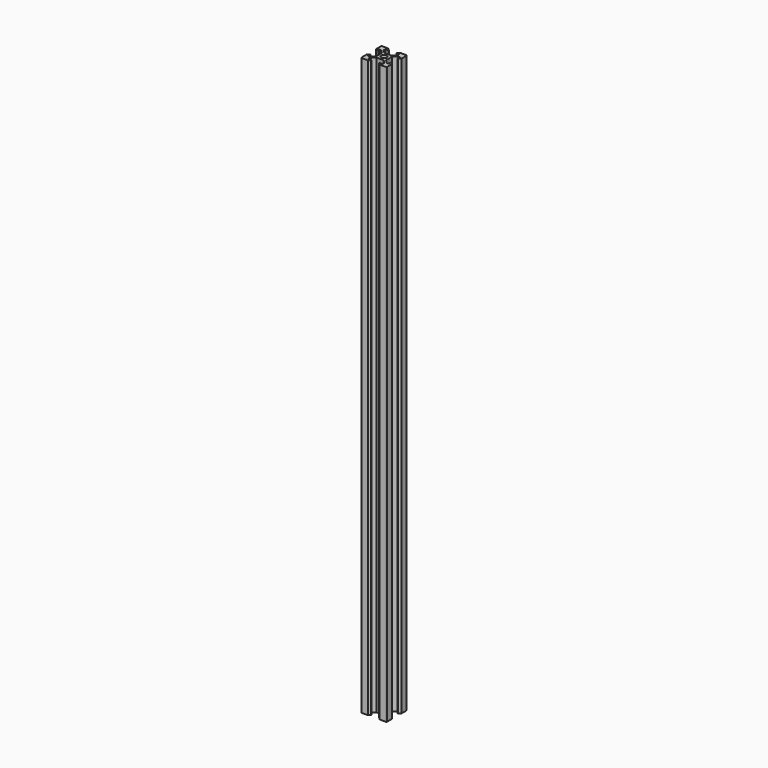
from build123d import *

# Parameters (mm, degrees)
SKETCH_R  = 2.1
PAD_DEPTH = 450


with BuildPart() as part:
    # Sketch → Pad (new body)
    with BuildSketch(Plane.XY):
        with BuildLine():
            Line((-10, 4.58), (-10, 9.5))
            ThreePointArc((-9.5, 10), (-9.853553, 9.853553), (-10, 9.5))
            Line((-9.5, 10), (-4.58, 10))
            Line((-4.58, 10), (-3.125, 8.545))
            Line((-3.125, 8.545), (-3.125, 8.2))
            Line((-5.5, 8.2), (-3.125, 8.2))
            Line((-5.5, 8.2), (-5.5, 6.56066))
            Line((-5.5, 6.56066), (-2.83934, 3.9))
            Line((-0.125, 3.9), (-2.83934, 3.9))
            ThreePointArc((-0.125, 3.9), (0, 3.775), (0.125, 3.9))
            Line((0.125, 3.9), (2.83934, 3.9))
            Line((2.83934, 3.9), (5.5, 6.56066))
            Line((5.5, 6.56066), (5.5, 8.2))
            Line((5.5, 8.2), (3.125, 8.2))
            Line((3.125, 8.2), (3.125, 8.545))
            Line((3.125, 8.545), (4.58, 10))
            Line((4.58, 10), (9.5, 10))
            ThreePointArc((10, 9.5), (9.853553, 9.853553), (9.5, 10))
            Line((10, 9.5), (10, 4.58))
            Line((10, 4.58), (8.545, 3.125))
            Line((8.545, 3.125), (8.2, 3.125))
            Line((8.2, 3.125), (8.2, 5.5))
            Line((8.2, 5.5), (6.56066, 5.5))
            Line((6.56066, 5.5), (3.9, 2.83934))
            Line((3.9, 2.83934), (3.9, 0.125))
            ThreePointArc((3.9, 0.125), (3.775, 0), (3.9, -0.125))
            Line((3.9, -0.125), (3.9, -2.83934))
            Line((3.9, -2.83934), (6.56066, -5.5))
            Line((6.56066, -5.5), (8.2, -5.5))
            Line((8.2, -5.5), (8.2, -3.125))
            Line((8.2, -3.125), (8.545, -3.125))
            Line((8.545, -3.125), (10, -4.58))
            Line((10, -4.58), (10, -9.5))
            ThreePointArc((9.5, -10), (9.853553, -9.853553), (10, -9.5))
            Line((9.5, -10), (4.58, -10))
            Line((4.58, -10), (3.125, -8.545))
            Line((3.125, -8.545), (3.125, -8.2))
            Line((3.125, -8.2), (5.5, -8.2))
            Line((5.5, -8.2), (5.5, -6.56066))
            Line((2.83934, -3.9), (5.5, -6.56066))
            Line((0.125, -3.9), (2.83934, -3.9))
            ThreePointArc((0.125, -3.9), (0, -3.775), (-0.125, -3.9))
            Line((-0.125, -3.9), (-2.83934, -3.9))
            Line((-2.83934, -3.9), (-5.5, -6.56066))
            Line((-5.5, -6.56066), (-5.5, -8.2))
            Line((-5.5, -8.2), (-3.125, -8.2))
            Line((-3.125, -8.545), (-3.125, -8.2))
            Line((-4.58, -10), (-3.125, -8.545))
            Line((-9.5, -10), (-4.58, -10))
            ThreePointArc((-10, -9.5), (-9.853553, -9.853553), (-9.5, -10))
            Line((-10, -4.58), (-10, -9.5))
            Line((-8.545, -3.125), (-10, -4.58))
            Line((-8.2, -3.125), (-8.545, -3.125))
            Line((-8.2, -5.5), (-8.2, -3.125))
            Line((-6.56066, -5.5), (-8.2, -5.5))
            Line((-3.9, -2.83934), (-6.56066, -5.5))
            Line((-3.9, -0.125), (-3.9, -2.83934))
            ThreePointArc((-3.9, -0.125), (-3.775, 0), (-3.9, 0.125))
            Line((-3.9, 2.83934), (-3.9, 0.125))
            Line((-6.56066, 5.5), (-3.9, 2.83934))
            Line((-8.2, 5.5), (-6.56066, 5.5))
            Line((-8.2, 5.5), (-8.2, 3.125))
            Line((-8.545, 3.125), (-8.2, 3.125))
            Line((-10, 4.58), (-8.545, 3.125))
        make_face()
        Circle(SKETCH_R, mode=Mode.SUBTRACT)
    extrude(amount=PAD_DEPTH)


solid = part.part
